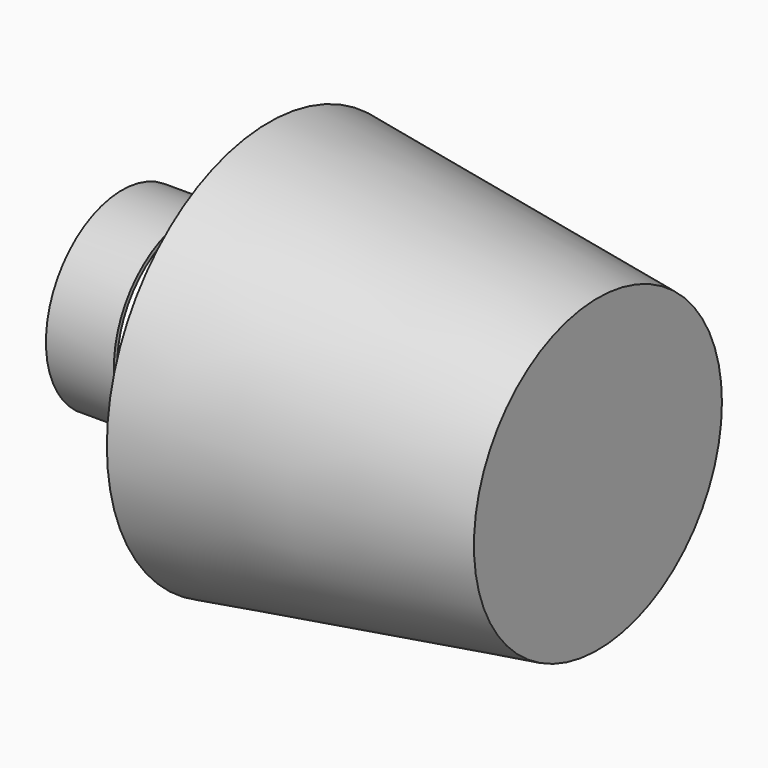
from build123d import *

# Parameters (mm, degrees)
F5_R     = 35
F5_R_2   = 33.5
F6_DEPTH = 25
F0_R     = 57
F2_R     = 74.5


with BuildPart() as f6:
    # F5 (on offset) → F6 (new body, through all)
    with BuildSketch(Plane.YZ.offset(-150)):
        Circle(F5_R)
        Circle(F5_R_2, mode=Mode.SUBTRACT)
    extrude(amount=-F6_DEPTH)


with BuildPart() as f7:
    # F0 (on Right) → F7 section 0
    with BuildSketch(Plane.YZ):
        Circle(F0_R)
    # F2 (on offset) → F7 section 1
    with BuildSketch(Plane.YZ.offset(-121)):
        Circle(F2_R)
    loft()


solid = Compound([f6.part, f7.part])
